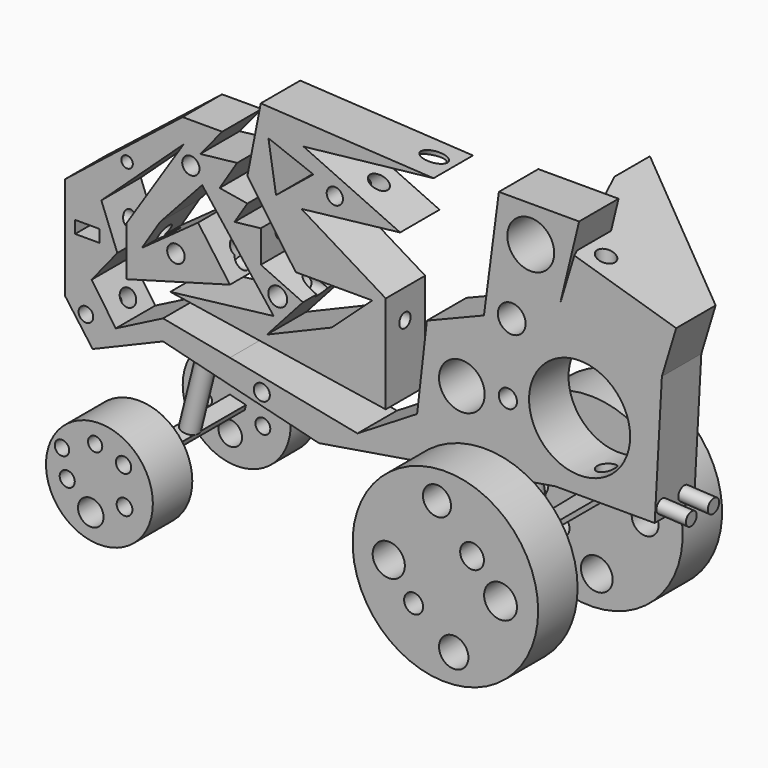
from build123d import *

# Parameters (mm, degrees)
F0_R      = 3.7654237678
F0_R_2    = 4.1383962
F0_W      = 12.4518871307
F0_H      = 6.3584111631
F0_R_3    = 4.5038728208
F0_R_4    = 4.8635378069
F0_R_5    = 11.7679494424
F0_R_6    = 26.0350469941
F0_R_7    = 2.9620505392
F0_R_8    = 4.4410995939
F0_R_9    = 4.1889715738
F0_R_10   = 7.1581175756
F0_R_11   = 12.0828353504
F1_DEPTH  = 25.4
F3_R      = 5.1962044533
F4_DEPTH  = 25.4
F6_DEPTH  = 2.54
F7_R      = 47.8046145489
F7_R_2    = 8.2876960873
F7_R_3    = 4.8927120291
F7_R_4    = 7.56820186
F7_R_5    = 8.4652536328
F7_R_6    = 7.2296637799
F7_R_7    = 6.1267166965
F8_DEPTH  = 25.4
F9_R      = 47.6794420765
F9_R_2    = 8.1716071813
F9_R_3    = 5.2077622933
F9_R_4    = 6.9061221527
F9_R_5    = 5.0066088742
F9_R_6    = 7.8690869412
F10_DEPTH = 25.4
F11_R     = 4.5824508002
F12_DEPTH = 40.64
F14_DEPTH = 2.54
F15_R     = 27.532705416
F15_R_2   = 6.5932857214
F15_R_3   = 3.8850845466
F15_R_4   = 4.0541912868
F15_R_5   = 3.7085001096
F15_R_6   = 3.6811776724
F15_R_7   = 3.9451731226
F16_DEPTH = 17.78
F17_DEPTH = 25.4
F18_R     = 27.8289026187
F18_R_2   = 3.8240111542
F18_R_3   = 6.0683973472
F18_R_4   = 3.0203555455
F18_R_5   = 4.9389618309
F18_R_6   = 3.1186808516
F18_R_7   = 3.607383505
F19_DEPTH = 17.78
F2_R      = 4.6871542891
F20_DEPTH = 71.5131446729
F21_R     = 3.6471610795
F22_DEPTH = 165.3196758049
F23_R     = 3.4752732171
F23_R_2   = 3.6682076752
F24_DEPTH = 15.24
F26_DEPTH = 25.4
F27_R     = 4.5368235258
F28_DEPTH = 124.3637119608
F29_R     = 4.3420506921
F30_DEPTH = 328.9423361775


with BuildPart() as f1:
    # F0 (on Front) → F1 (new body)
    with BuildSketch(Plane.XZ):
        Polygon((-118.7713195074, -14.7865353475), (-109.4176471233, 0), (-87.6930803061, 23.8412804902), (-50.8672855794, -23.5818661749), (-104.1189730167, -29.9402754754), (6.8882782944, -47.1609681845), (6.8882782944, 3.1764463056), (-36.5608595312, 29.6698249876), (14.3064232543, 35.4983657598), (-35.5011262, 58.2826696336), (31.52712062, 65.7008215785), (-57.490631938, 70.7345604897), (-64.3789097667, 35.4983657598), (-39.4751317799, 0), (0, 0), (-20.9297686815, -19.0779902041), (-54.3114244938, -33.1194810569), (-35.7660613954, -12.4546466395), (-57.490631938, -2.5168114681), (-57.490631938, 14.038731344), (-71.0125563065, 12.5422325646), (-64.3789097667, 23.0464804918), (-78.6853283644, 25.4308823496), (-69.6775838733, 39.7373102605), (-88.6668318408, 37.6357316959), (-77.3606672883, 51.3943918049), (-97.7605581284, 51.3943918049), (-158.4303975105, 3.4413801041), (-158.4303975105, -49.2804422975), (-144.1239714622, -68.8855424523), (-107.8516853021, -53.6281514711), (-27.5531131774, -73.6543536186), (94.3164229393, -53.6281514711), (145.4486399889, -53.6281514711), (149.157717824, 14.038731344), (96.7008322477, 29.9347583205), (106.5033748746, 70.4696252942), (65.1737079024, 70.4696252942), (57.490631938, 11.9192609563), (28.082979843, 0), (23.0492390692, -43.9817681909), (-7.6830787584, -62.7920627594), (-73.3866542578, -49.8103089631), (-107.8516853021, -43.1869663298), (-132.2019547224, -55.6388534606), (-144.6538418531, -37.6233570278), (-131.4071565866, -21.1974605918), (-139.6201103926, 0), (-97.230695188, 39.2074398696), (-126.6383528709, -6.0962359421), (-126.6383528709, -31.5298810601), (-73.3866542578, -16.6935864836), (-89.8125469685, 6.0907178558), align=None)
        with Locations((-147.5681215525, -54.3141849339)):
            Circle(F0_R, mode=Mode.SUBTRACT)
        with Locations((-56.9607615471, -60.1427257061)):
            Circle(F0_R_2, mode=Mode.SUBTRACT)
        with Locations((-146.9057798386, -16.4286531508)):
            Rectangle(F0_W, F0_H, mode=Mode.SUBTRACT)
        with Locations((-101.204700768, -11.6598457098)):
            Circle(F0_R_3, mode=Mode.SUBTRACT)
        with Locations((-48.7478151917, -14.0442494303)):
            Circle(F0_R_4, mode=Mode.SUBTRACT)
        with Locations((46.0984781384, -23.8467976451)):
            Circle(F0_R_5, mode=Mode.SUBTRACT)
        with Locations((106.7683175206, -18.5481235385)):
            Circle(F0_R_6, mode=Mode.SUBTRACT)
        with Locations((-126.3734102249, 21.7218101025)):
            Circle(F0_R_7, mode=Mode.SUBTRACT)
        with Locations((-93.5216248035, 30.7295583189)):
            Circle(F0_R_8, mode=Mode.SUBTRACT)
        with Locations((-19.3401668221, 41.0619750619)):
            Circle(F0_R_9, mode=Mode.SUBTRACT)
        Polygon((-49.63540216, 31.6437377156), (-53.5436363585, 56.1718109521), (-30.3475847305, 47.2924044337), align=None, mode=Mode.SUBTRACT)
        with Locations((71.7970579863, 15.0984656066)):
            Circle(F0_R_10, mode=Mode.SUBTRACT)
        with Locations((81.5996080637, 51.9242621958)):
            Circle(F0_R_11, mode=Mode.SUBTRACT)
    extrude(amount=F1_DEPTH)

    # F3 (on face) → F4 (join)
    with BuildSketch(Plane(origin=(11.0605729686, 0, -67.309162613), x_dir=(0.9867660783, 0, 0.1621502599), z_dir=(0.1621502599, 0, -0.9867660783))):
        with Locations((60.9988868237, 13.8215944171)):
            Circle(F3_R)
    extrude(amount=F4_DEPTH)

    # F5 (on face) → F6 (join)
    with BuildSketch(Plane(origin=(15.1791895702, 0, -92.373021001), x_dir=(0.9867660783, 0, 0.1621502599), z_dir=(0.1621502599, 0, -0.9867660783))):
        Polygon((54.8229532789, 45.4729328852), (55.8051573729, 13.6612350938), (54.8229532789, -20.7121446729), (66.1766786501, -20.7121446729), (66.1766786501, 14.2586442112), (63.5419264436, 45.4729328852), align=None)
    extrude(amount=F6_DEPTH)

    # F7 (on face) → F8 (join)
    with BuildSketch(Plane.XZ.offset(45.4729328852)):
        with Locations((73.9902753143, -82.7088938601)):
            Circle(F7_R)
        with Locations((44.829595834, -84.5760669522)):
            Circle(F7_R_2, mode=Mode.SUBTRACT)
        with Locations((57.6258860528, -100.1502797008)):
            Circle(F7_R_3, mode=Mode.SUBTRACT)
        with Locations((78.2920687924, -115.5810952187)):
            Circle(F7_R_4, mode=Mode.SUBTRACT)
        with Locations((102.4129092693, -84.5760669522)):
            Circle(F7_R_5, mode=Mode.SUBTRACT)
        with Locations((69.6694552898, -49.7178323567)):
            Circle(F7_R_6, mode=Mode.SUBTRACT)
        with Locations((87.734811008, -68.9122676849)):
            Circle(F7_R_7, mode=Mode.SUBTRACT)
    extrude(amount=F8_DEPTH)

    # F9 (on face) → F10 (join)
    with BuildSketch(Plane(origin=(0, 20.7121446729, 0), x_dir=(-1, 0, 0), z_dir=(0, 1, 0))):
        with Locations((-75.2902173653, -85.069345957)):
            Circle(F9_R)
        with Locations((-78.7238553166, -117.128290236)):
            Circle(F9_R_2, mode=Mode.SUBTRACT)
        with Locations((-59.4891346991, -101.1806428432)):
            Circle(F9_R_3, mode=Mode.SUBTRACT)
        with Locations((-103.6241352558, -84.8380550742)):
            Circle(F9_R_4, mode=Mode.SUBTRACT)
        with Locations((-88.3276760578, -69.9478015304)):
            Circle(F9_R_5, mode=Mode.SUBTRACT)
        with Locations((-45.9039323032, -84.9959328771)):
            Circle(F9_R_6, mode=Mode.SUBTRACT)
    extrude(amount=F10_DEPTH)

    # F11 (on face) → F12 (join)
    with BuildSketch(Plane(origin=(-18.9069369273, 0, -75.8106817924), x_dir=(0.9702800686, 0, -0.2419846864), z_dir=(-0.2419846864, 0, -0.9702800686))):
        with Locations((-77.2518366575, 13.2209081203)):
            Circle(F11_R)
    extrude(amount=F12_DEPTH)

    # F13 (on face) → F14 (join)
    with BuildSketch(Plane(origin=(-28.7411945825, 0, -115.2428637809), x_dir=(0.9702800686, 0, -0.2419846864), z_dir=(-0.2419846864, 0, -0.9702800686))):
        Polygon((-81.8342874578, 45.0111925602), (-81.8342874578, 13.2209081203), (-81.8342874578, -18.0210918797), (-73.2853114605, -18.0210918797), (-73.2853114605, 45.0111925602), align=None)
    extrude(amount=F14_DEPTH)

    # F15 (on face) → F16 (join)
    with BuildSketch(Plane.XZ.offset(45.0111925602)):
        with Locations((-104.6105632268, -98.939091406)):
            Circle(F15_R)
        with Locations((-109.0720742941, -113.275937736)):
            Circle(F15_R_2, mode=Mode.SUBTRACT)
        with Locations((-121.1922764778, -102.0401418209)):
            Circle(F15_R_3, mode=Mode.SUBTRACT)
        with Locations((-91.6758179665, -105.1382869482)):
            Circle(F15_R_4, mode=Mode.SUBTRACT)
        with Locations((-123.9205673337, -88.8288021088)):
            Circle(F15_R_5, mode=Mode.SUBTRACT)
        with Locations((-106.8240553141, -81.5756097436)):
            Circle(F15_R_6, mode=Mode.SUBTRACT)
        with Locations((-92.1722128987, -86.236231029)):
            Circle(F15_R_7, mode=Mode.SUBTRACT)
    extrude(amount=F16_DEPTH)

    # F15 (on face) → F17 (join)
    with BuildSketch(Plane.XZ.offset(45.0111925602)):
        with Locations((-104.6105632268, -98.939091406)):
            Circle(F15_R)
        with Locations((-109.0720742941, -113.275937736)):
            Circle(F15_R_2, mode=Mode.SUBTRACT)
        with Locations((-121.1922764778, -102.0401418209)):
            Circle(F15_R_3, mode=Mode.SUBTRACT)
        with Locations((-91.6758179665, -105.1382869482)):
            Circle(F15_R_4, mode=Mode.SUBTRACT)
        with Locations((-123.9205673337, -88.8288021088)):
            Circle(F15_R_5, mode=Mode.SUBTRACT)
        with Locations((-106.8240553141, -81.5756097436)):
            Circle(F15_R_6, mode=Mode.SUBTRACT)
        with Locations((-92.1722128987, -86.236231029)):
            Circle(F15_R_7, mode=Mode.SUBTRACT)
    extrude(amount=F17_DEPTH)

    # F18 (on face) → F19 (join)
    with BuildSketch(Plane(origin=(0, 18.0210918797, 0), x_dir=(-1, 0, 0), z_dir=(0, 1, 0))):
        with Locations((104.6105632268, -98.939091406)):
            Circle(F18_R)
        with Locations((91.1502465606, -104.2726635933)):
            Circle(F18_R_2, mode=Mode.SUBTRACT)
        with Locations((107.942327857, -112.9313036799)):
            Circle(F18_R_3, mode=Mode.SUBTRACT)
        with Locations((120.3579679132, -101.4888063073)):
            Circle(F18_R_4, mode=Mode.SUBTRACT)
        with Locations((91.724909842, -85.3463187814)):
            Circle(F18_R_5, mode=Mode.SUBTRACT)
        with Locations((123.3955547214, -87.9430249333)):
            Circle(F18_R_6, mode=Mode.SUBTRACT)
        with Locations((105.8645993471, -80.8568149805)):
            Circle(F18_R_7, mode=Mode.SUBTRACT)
    extrude(amount=F19_DEPTH)

    # F2 (on face) → F20 (cut, through all)
    with BuildSketch(Plane.XZ.offset(25.4)):
        with Locations((69.8100551963, -21.72732912)):
            Circle(F2_R)
    extrude(amount=-F20_DEPTH, mode=Mode.SUBTRACT)

    # F21 (on face) → F22 (cut, through all)
    with BuildSketch(Plane.YZ.offset(6.8882782944)):
        with Locations((-13.0405407399, -11.7296911776)):
            Circle(F21_R)
    extrude(amount=-F22_DEPTH, mode=Mode.SUBTRACT)

    # F23 (on face) → F24 (join)
    with BuildSketch(Plane(origin=(147.943697493, 0, -8.1093537397), x_dir=(0, 1, 0), z_dir=(0.9985011014, 0, -0.0547316228))):
        with Locations((-21.2437082082, -39.4572131336)):
            Circle(F23_R)
        with Locations((-6.9591458887, -39.4572131336)):
            Circle(F23_R_2)
    extrude(amount=F24_DEPTH)

    # F25 (on face) → F26 (join)
    with BuildSketch(Plane(origin=(16.4411734011, 0, 54.2558686595), x_dir=(0.9570243991, 0, -0.2900074127), z_dir=(0.2900074127, 0, 0.9570243991))):
        Polygon((60.6502741575, 51.0394014418), (60.6502741575, 28.0850045383), (101.6217501645, 0), (138.6762391234, 0), align=None)
        Polygon((101.6217501645, 0), (60.6502741575, 28.0850045383), (83.8637540676, -25.4), (138.6762391234, -25.4), align=None)
        Polygon((138.6762391234, 0), (101.6217501645, 0), (138.6762391234, -25.4), align=None)
    extrude(amount=F26_DEPTH)

    # F27 (on face) → F28 (cut, through all)
    with BuildSketch(Plane(origin=(0, 0, -53.6281514711), x_dir=(1, 0, 0), z_dir=(0, 0, -1))):
        with Locations((111.6544008255, 14.462034218)):
            Circle(F27_R)
    extrude(amount=-F28_DEPTH, mode=Mode.SUBTRACT)

    # F29 (on face) → F30 (cut, through all)
    with BuildSketch(Plane(origin=(-126.8457391639, 0, -92.5631173802), x_dir=(0, -1, 0), z_dir=(-0.8077909163, 0, -0.5894691134))):
        with Locations((11.6516277194, 41.2768609822)):
            Circle(F29_R)
    extrude(amount=-F30_DEPTH, mode=Mode.SUBTRACT)


solid = f1.part
